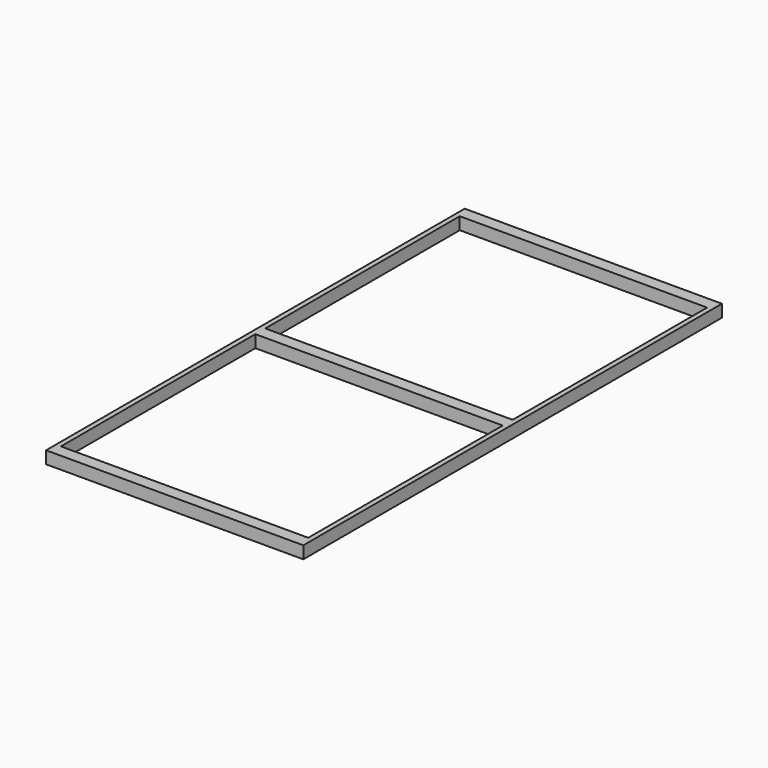
from build123d import *

# Parameters (mm, degrees)
F0_W     = 100
F0_H     = 5
F1_DEPTH = 5


with BuildPart() as f1:
    # F0 (on Top) → F1 (new body)
    with BuildSketch(Plane.XY):
        Polygon((-35.745753, 98.273505), (-35.745753, 103.273505), (-37.745753, 103.273505), (-37.745753, -108.273505), (-35.745753, -108.273505), (-35.745753, -103.273505), (-35.745753, -5), (-35.745753, 0), align=None)
        with Locations((14.254247, -105.773505)):
            Rectangle(F0_W, F0_H)
        with Locations((14.254247, -2.5)):
            Rectangle(F0_W, F0_H)
        with Locations((14.254247, 100.773505)):
            Rectangle(F0_W, F0_H)
        Polygon((66.254247, 103.273505), (64.254247, 103.273505), (64.254247, 98.273505), (64.254247, 0), (64.254247, -5), (64.254247, -103.273505), (64.254247, -108.273505), (66.254247, -108.273505), align=None)
    extrude(amount=F1_DEPTH)


solid = f1.part
